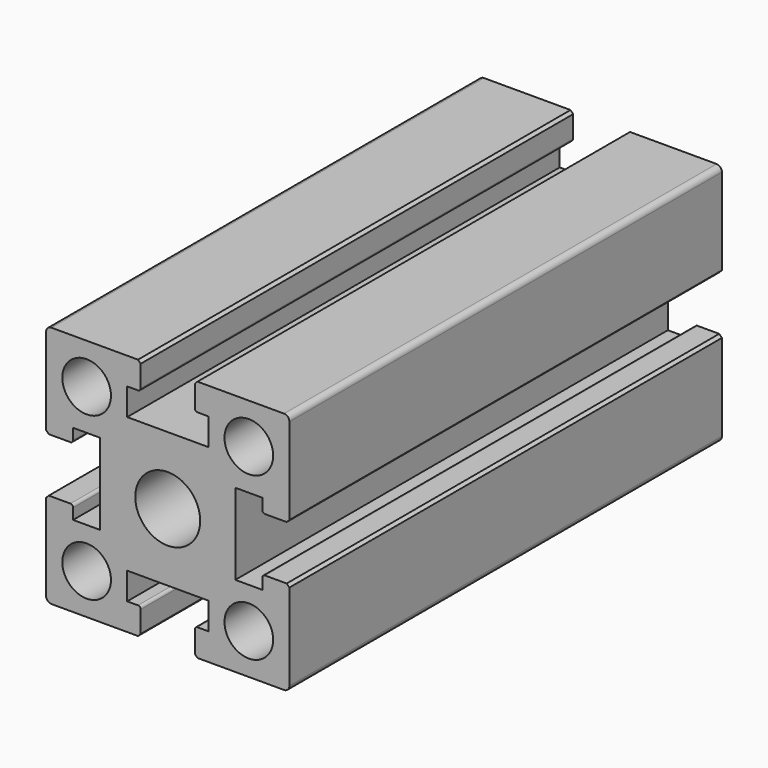
from build123d import *

# Parameters (mm, degrees)
F0_R     = 4.5
F0_R_2   = 6
F1_DEPTH = 100
F2_R     = 1
F3_R     = 0.5
F4_SIZE  = 0.5


with BuildPart() as f1:
    # F0 (on Front) → F1 (new body)
    with BuildSketch(Plane.XZ):
        Polygon((4.117647, -21.029412), (21.617647, -21.029412), (21.617647, -3.529412), (16.617647, -3.529412), (16.617647, -6.029412), (11.617647, -6.029412), (11.617647, 8.970588), (16.617647, 8.970588), (16.617647, 6.470588), (21.617647, 6.470588), (21.617647, 23.970588), (4.117647, 23.970588), (4.117647, 18.970588), (6.617647, 18.970588), (6.617647, 13.970588), (-8.382353, 13.970588), (-8.382353, 18.970588), (-5.882353, 18.970588), (-5.882353, 23.970588), (-23.382353, 23.970588), (-23.382353, 6.470588), (-18.382353, 6.470588), (-18.382353, 8.970588), (-13.382353, 8.970588), (-13.382353, -6.029412), (-18.382353, -6.029412), (-18.382353, -3.529412), (-23.382353, -3.529412), (-23.382353, -21.029412), (-5.882353, -21.029412), (-5.882353, -16.029412), (-8.382353, -16.029412), (-8.382353, -11.029412), (6.617647, -11.029412), (6.617647, -16.029412), (4.117647, -16.029412), align=None)
        with Locations((-15.882353, -13.529412)):
            Circle(F0_R, mode=Mode.SUBTRACT)
        with Locations((14.117647, -13.529412)):
            Circle(F0_R, mode=Mode.SUBTRACT)
        with Locations((-0.882353, 1.470588)):
            Circle(F0_R_2, mode=Mode.SUBTRACT)
        with Locations((-15.882353, 16.470588)):
            Circle(F0_R, mode=Mode.SUBTRACT)
        with Locations((14.117647, 16.470588)):
            Circle(F0_R, mode=Mode.SUBTRACT)
    extrude(amount=F1_DEPTH)

    # F2
    f2_edges = [f1.edges().sort_by_distance(p)[0] for p in [
        (21.617647, -50, 23.970588),
        (21.617647, -50, -21.029412),
        (-23.382353, -50, -21.029412),
        (-23.382353, -50, 23.970588),
    ]]
    fillet(f2_edges, radius=F2_R)

    # F3
    f3_edges = [f1.edges().sort_by_distance(p)[0] for p in [
        (4.117647, -50, -16.029412),
        (16.617647, -50, 6.470588),
        (16.617647, -50, -3.529412),
        (4.117647, -50, 18.970588),
        (-5.882353, -50, 18.970588),
        (-18.382353, -50, 6.470588),
        (-18.382353, -50, -3.529412),
        (-5.882353, -50, -16.029412),
    ]]
    fillet(f3_edges, radius=F3_R)

    # F4
    f4_edges = [f1.edges().sort_by_distance(p)[0] for p in [
        (-23.382353, -50, -3.529412),
        (-23.382353, -50, 6.470588),
        (-5.882353, -50, 23.970588),
        (4.117647, -50, 23.970588),
        (21.617647, -50, -3.529412),
        (4.117647, -50, -21.029412),
        (21.617647, -50, 6.470588),
        (-5.882353, -50, -21.029412),
    ]]
    chamfer(f4_edges, length=F4_SIZE)


solid = f1.part
